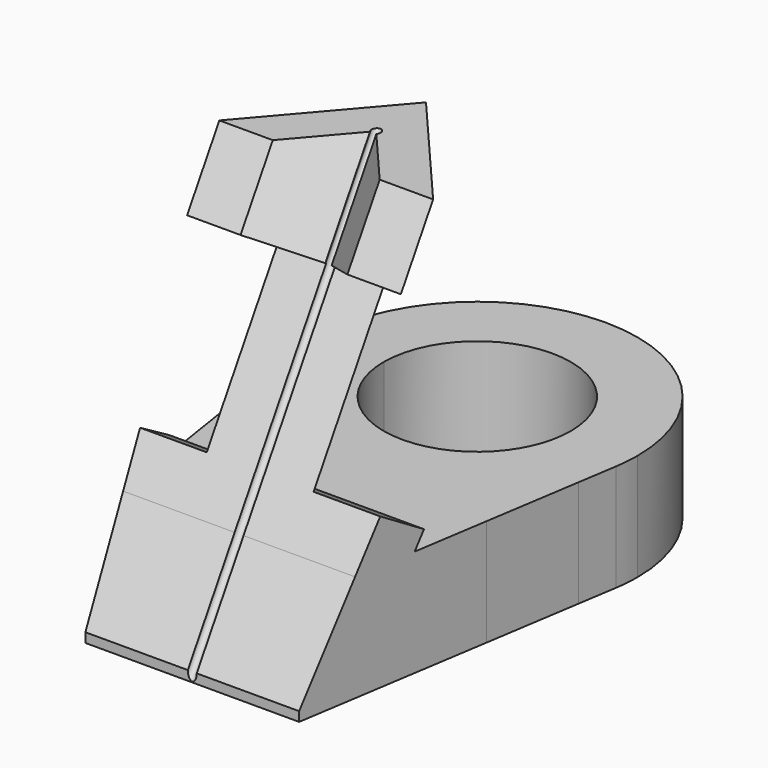
from build123d import *

# Parameters (mm, degrees)
F1_DEPTH = 9.525
F2_DEPTH = 25.4
F5_DEPTH = 28.576
F8_DEPTH = 43.3465842573
F9_DEPTH = 27.94


with BuildPart() as f1:
    # F0 (on Top) → F1 (new body)
    with BuildSketch(Plane.XY):
        with BuildLine():
            ThreePointArc((-8.33501, 0), (0, 8.33501), (8.33501, 0))
            Line((8.33501, 0), (14.2875, 0))
            ThreePointArc((14.2875, 0), (0, 14.2875), (-14.2875, 0))
            Line((-14.2875, 0), (-8.33501, 0))
        make_face()
        with BuildLine():
            ThreePointArc((-6.0672206734, -5.715), (-7.7473458902, -3.0742516744), (-8.33501, 0))
            Line((-8.33501, 0), (-14.2875, 0))
            ThreePointArc((-14.2875, 0), (-14.2450732062, -1.1002479715), (-14.1180447981, -2.1939615606))
            ThreePointArc((-14.1180447981, -2.1939615606), (-13.7198008187, -3.9874455161), (-13.0947100483, -5.715))
            Line((-13.0947100483, -5.715), (-6.0672206734, -5.715))
        make_face()
        with BuildLine():
            Line((13.0947100483, -5.715), (6.0672206734, -5.715))
            ThreePointArc((6.0672206734, -5.715), (0, -8.33501), (-6.0672206734, -5.715))
            Line((-6.0672206734, -5.715), (-13.0947100483, -5.715))
            ThreePointArc((-13.0947100483, -5.715), (-7.8255860404, -11.9537801291), (0, -14.2875))
            ThreePointArc((0, -14.2875), (7.8255860404, -11.9537801291), (13.0947100483, -5.715))
        make_face()
        with BuildLine():
            Line((14.2875, 0), (8.33501, 0))
            ThreePointArc((8.33501, 0), (7.7473458902, -3.0742516744), (6.0672206734, -5.715))
            Line((6.0672206734, -5.715), (13.0947100483, -5.715))
            ThreePointArc((13.0947100483, -5.715), (13.7198008187, -3.9874455161), (14.1180447981, -2.1939615606))
            ThreePointArc((14.1180447981, -2.1939615606), (14.2450732062, -1.1002479715), (14.2875, 0))
        make_face()
        with BuildLine():
            ThreePointArc((0, -14.2875), (-7.8255860404, -11.9537801291), (-13.0947100483, -5.715))
            Line((-13.0947100483, -5.715), (-13.5708710853, -5.715))
            Line((-13.5708710853, -5.715), (-12.2386940206, -14.2875))
            Line((-12.2386940206, -14.2875), (0, -14.2875))
        make_face()
        with BuildLine():
            Line((13.5708710853, -5.715), (13.0947100483, -5.715))
            ThreePointArc((13.0947100483, -5.715), (7.8255860404, -11.9537801291), (0, -14.2875))
            Line((0, -14.2875), (12.2386940206, -14.2875))
            Line((12.2386940206, -14.2875), (13.5708710853, -5.715))
        make_face()
        Polygon((12.2386940206, -14.2875), (0, -14.2875), (-12.2386940206, -14.2875), (-9.525, -31.75), (0, -31.75), (9.525, -31.75), align=None)
        with BuildLine():
            ThreePointArc((-6.0672206734, -5.715), (-7.7473458902, -3.0742516744), (-8.33501, 0))
            Line((-8.33501, 0), (-14.2875, 0))
            ThreePointArc((-14.2875, 0), (-14.2450732062, -1.1002479715), (-14.1180447981, -2.1939615606))
            ThreePointArc((-14.1180447981, -2.1939615606), (-13.7198008187, -3.9874455161), (-13.0947100483, -5.715))
            Line((-13.0947100483, -5.715), (-6.0672206734, -5.715))
        make_face()
        with BuildLine():
            Line((14.2875, 0), (8.33501, 0))
            ThreePointArc((8.33501, 0), (7.7473458902, -3.0742516744), (6.0672206734, -5.715))
            Line((6.0672206734, -5.715), (13.0947100483, -5.715))
            ThreePointArc((13.0947100483, -5.715), (13.7198008187, -3.9874455161), (14.1180447981, -2.1939615606))
            ThreePointArc((14.1180447981, -2.1939615606), (14.2450732062, -1.1002479715), (14.2875, 0))
        make_face()
        with BuildLine():
            Line((13.0947100483, -5.715), (6.0672206734, -5.715))
            ThreePointArc((6.0672206734, -5.715), (0, -8.33501), (-6.0672206734, -5.715))
            Line((-6.0672206734, -5.715), (-13.0947100483, -5.715))
            ThreePointArc((-13.0947100483, -5.715), (-7.8255860404, -11.9537801291), (0, -14.2875))
            ThreePointArc((0, -14.2875), (7.8255860404, -11.9537801291), (13.0947100483, -5.715))
        make_face()
        with BuildLine():
            Line((-13.5708710853, -5.715), (-13.0947100483, -5.715))
            ThreePointArc((-13.0947100483, -5.715), (-13.7198008187, -3.9874455161), (-14.1180447981, -2.1939615606))
            Line((-14.1180447981, -2.1939615606), (-13.5708710853, -5.715))
        make_face()
        with BuildLine():
            ThreePointArc((14.1180447981, -2.1939615606), (13.7198008187, -3.9874455161), (13.0947100483, -5.715))
            Line((13.0947100483, -5.715), (13.5708710853, -5.715))
            Line((13.5708710853, -5.715), (14.1180447981, -2.1939615606))
        make_face()
    extrude(amount=-F1_DEPTH)

    # F0 (on Top) → F2 (join)
    with BuildSketch(Plane.XY):
        with BuildLine():
            ThreePointArc((0, -14.2875), (-7.8255860404, -11.9537801291), (-13.0947100483, -5.715))
            Line((-13.0947100483, -5.715), (-13.5708710853, -5.715))
            Line((-13.5708710853, -5.715), (-12.2386940206, -14.2875))
            Line((-12.2386940206, -14.2875), (0, -14.2875))
        make_face()
        with BuildLine():
            Line((13.5708710853, -5.715), (13.0947100483, -5.715))
            ThreePointArc((13.0947100483, -5.715), (7.8255860404, -11.9537801291), (0, -14.2875))
            Line((0, -14.2875), (12.2386940206, -14.2875))
            Line((12.2386940206, -14.2875), (13.5708710853, -5.715))
        make_face()
        Polygon((12.2386940206, -14.2875), (0, -14.2875), (-12.2386940206, -14.2875), (-9.525, -31.75), (0, -31.75), (9.525, -31.75), align=None)
        with BuildLine():
            Line((13.0947100483, -5.715), (6.0672206734, -5.715))
            ThreePointArc((6.0672206734, -5.715), (0, -8.33501), (-6.0672206734, -5.715))
            Line((-6.0672206734, -5.715), (-13.0947100483, -5.715))
            ThreePointArc((-13.0947100483, -5.715), (-7.8255860404, -11.9537801291), (0, -14.2875))
            ThreePointArc((0, -14.2875), (7.8255860404, -11.9537801291), (13.0947100483, -5.715))
        make_face()
        with BuildLine():
            ThreePointArc((-6.0672206734, -5.715), (0, -8.33501), (6.0672206734, -5.715))
            Line((6.0672206734, -5.715), (0, -5.715))
            Line((0, -5.715), (-6.0672206734, -5.715))
        make_face()
    extrude(amount=F2_DEPTH)

    # F4 (on offset) → F5 (cut, through all)
    with BuildSketch(Plane.YZ.offset(14.2875)):
        Polygon((-32.0890428318, 0), (-20.4205020905, 19.4197129446), (-16.8271831085, 25.4), (-32.0890428318, 25.4), align=None)
        Polygon((-20.9768597233, 0), (-5.715, 0), (-5.715, 25.4), (-12.2559835514, 14.5139752811), align=None)
        Polygon((-26.5329512775, 0), (-16.338242821, 16.9668441128), (-20.4205020905, 19.4197129446), (-32.0890428318, 0), (-37.812240228, -9.525), (-32.2561486738, -9.525), align=None)
    extrude(amount=-F5_DEPTH, mode=Mode.SUBTRACT)

    # F7 (on face) → F8 (cut, through all)
    with BuildSketch(Plane(origin=(0, 9.69744942, 16.1392661008), x_dir=(1, 0, 0), z_dir=(0, -0.5150380749, -0.8571673007))):
        with BuildLine():
            Line((0.2806330038, 23.02381123), (4.7625, 27.5056782262))
            Line((4.7625, 27.5056782262), (0, 27.5056782262))
            Line((0, 27.5056782262), (-4.7625, 27.5056782262))
            Line((-4.7625, 27.5056782262), (-0.2806330038, 23.02381123))
            ThreePointArc((-0.2806330038, 23.02381123), (0, 23.1400532262), (0.2806330038, 23.02381123))
        make_face()
        with BuildLine():
            ThreePointArc((-0.2806330038, 23.02381123), (-0.3666646895, 22.8950557134), (-0.396875, 22.7431782262))
            Line((-0.396875, 22.7431782262), (0, 22.7431782262))
            Line((0, 22.7431782262), (-0.2806330038, 23.02381123))
        make_face()
        with BuildLine():
            Line((0, 22.7431782262), (0.396875, 22.7431782262))
            ThreePointArc((0.396875, 22.7431782262), (0.3666646895, 22.8950557134), (0.2806330038, 23.02381123))
            Line((0.2806330038, 23.02381123), (0, 22.7431782262))
        make_face()
        with BuildLine():
            Line((-0.2806330038, 23.02381123), (0, 22.7431782262))
            Line((0, 22.7431782262), (0.2806330038, 23.02381123))
            ThreePointArc((0.2806330038, 23.02381123), (0, 23.1400532262), (-0.2806330038, 23.02381123))
        make_face()
        with BuildLine():
            ThreePointArc((-0.396875, 22.7431782262), (0, 22.3463032262), (0.396875, 22.7431782262))
            Line((0.396875, 22.7431782262), (0, 22.7431782262))
            Line((0, 22.7431782262), (-0.396875, 22.7431782262))
        make_face()
    extrude(amount=F8_DEPTH, mode=Mode.SUBTRACT)

    # F7 (on face) → F9 (cut)
    with BuildSketch(Plane(origin=(0, 9.69744942, 16.1392661008), x_dir=(1, 0, 0), z_dir=(0, -0.5150380749, -0.8571673007))):
        Polygon((9.525, 27.5056782262), (4.7625, 22.7431782262), (9.2526280605, 22.7431782262), (13.5678891093, 27.0584392749), (14.0151280605, 27.5056782262), align=None)
        Polygon((9.2526280605, 22.7431782262), (4.4901280605, 17.9806782262), (13.5678891093, 17.9806782262), (13.5678891093, 22.7431782262), align=None)
        Polygon((-13.5678891093, 17.9806782262), (-4.4901280605, 17.9806782262), (-9.2526280605, 22.7431782262), (-13.5678891093, 22.7431782262), align=None)
        Polygon((13.5678891093, 27.0584392749), (9.2526280605, 22.7431782262), (13.5678891093, 22.7431782262), align=None)
        Polygon((-9.2526280605, 22.7431782262), (-4.7625, 22.7431782262), (-9.525, 27.5056782262), (-14.0151280605, 27.5056782262), (-13.5678891093, 27.0584392749), align=None)
        Polygon((-13.5678891093, 22.7431782262), (-9.2526280605, 22.7431782262), (-13.5678891093, 27.0584392749), align=None)
        Polygon((4.7625, 22.7431782262), (0, 17.9806782262), (4.4901280605, 17.9806782262), (9.2526280605, 22.7431782262), align=None)
        Polygon((-4.4901280605, 17.9806782262), (0, 17.9806782262), (-4.7625, 22.7431782262), (-9.2526280605, 22.7431782262), align=None)
    extrude(amount=F9_DEPTH, mode=Mode.SUBTRACT)


solid = f1.part
